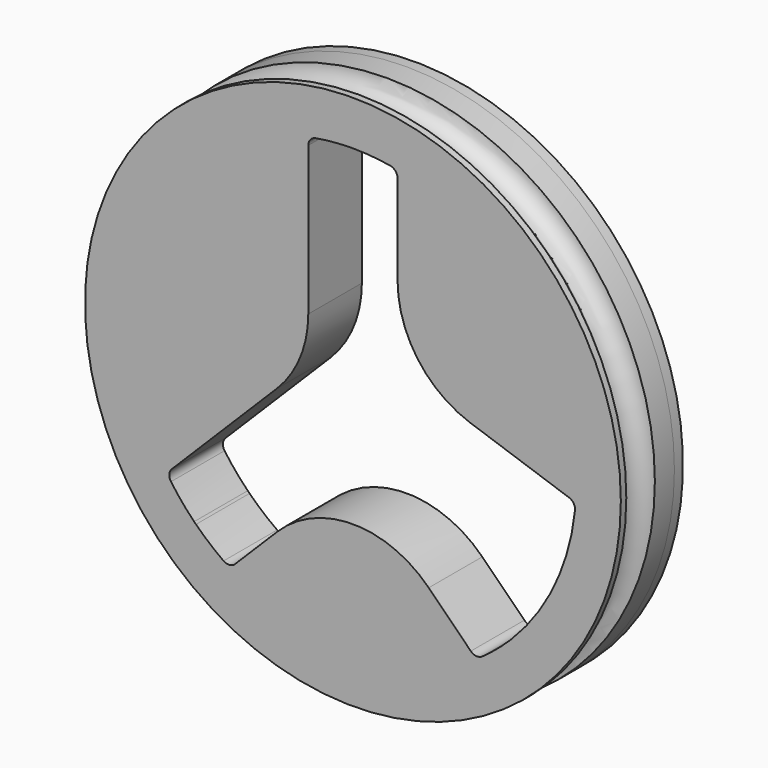
from build123d import *

# Parameters (mm, degrees)
F0_R     = 19.05
F1_DEPTH = 4.7625
F3_DEPTH = 25.4
F4_R     = 0.635
F5_R     = 7.62
F6_R     = 19.05
F6_R_2   = 16.8477682608
F7_DEPTH = 0.762
F8_R     = 1.27


with BuildPart() as f1:
    # F0 (on Front) → F1 (new body)
    with BuildSketch(Plane.XZ):
        Circle(F0_R)
    extrude(amount=F1_DEPTH)

    # F2 (on face) → F3 (cut)
    with BuildSketch(Plane.XZ.offset(4.7625)):
        with BuildLine():
            ThreePointArc((-13.2419744131, -8.7555045953), (-12.3238425839, -10.0067993588), (-11.2879133137, -11.1624615879))
            ThreePointArc((-11.2879133137, -11.1624615879), (-11.2235221627, -11.2272144784), (-11.1587595957, -11.2915958968))
            ThreePointArc((-11.1587595957, -11.2915958968), (-10.0029416889, -12.32735147), (-8.7515089527, -13.2452952306))
            Line((-8.7515089527, -13.2452952306), (0.0012918382, -4.4911788753))
            Line((0.0012918382, -4.4911788753), (8.7554081934, -13.2439796662))
            ThreePointArc((8.7554081934, -13.2439796662), (10.006702957, -12.325847837), (11.1623651861, -11.2899185668))
            ThreePointArc((11.1623651861, -11.2899185668), (11.2271180766, -11.2255274158), (11.291499495, -11.1607648488))
            ThreePointArc((11.291499495, -11.1607648488), (14.4575372164, -6.5602305791), (15.8344708919, -1.1479515698))
            Line((15.8344708919, -1.1479515698), (3.1757157521, 3.1741877502))
            Line((3.1757157521, 3.1741877502), (3.1747959638, 15.4156336391))
            Line((3.1747959638, 15.4156336391), (3.1747856088, 15.5534475772))
            ThreePointArc((3.1747856088, 15.5534475772), (1.6407693424, 15.7890293509), (0.0910801197, 15.8736933393))
            ThreePointArc((0.0910801197, 15.8736933393), (-0.0002385077, 15.8739491277), (-0.0915570956, 15.8736796149))
            ThreePointArc((-0.0915570956, 15.8736796149), (-1.6412335946, 15.7887827216), (-3.1752144554, 15.5529703966))
            Line((-3.1752144554, 15.5529703966), (-3.1741441565, 1.3138388775))
            Line((-3.1741441565, 1.3138388775), (-13.2419744131, -8.7555045953))
        make_face()
        with BuildLine():
            Line((-3.1740454005, 0), (-3.1741441565, 1.3138388775))
            Line((-3.1741441565, 1.3138388775), (-2.2442783045, 2.2438444902))
            ThreePointArc((-2.2442783045, 2.2438444902), (-2.9322076505, 1.2143442667), (-3.1740454005, 0))
        make_face(mode=Mode.SUBTRACT)
        with BuildLine():
            Line((-2.2442783045, 2.2438444902), (-3.1741441565, 1.3138388775))
            Line((-3.1741441565, 1.3138388775), (-3.1740454005, 0))
            ThreePointArc((-3.1740454005, 0), (-2.9322076505, 1.2143442667), (-2.2442783045, 2.2438444902))
        make_face()
        with BuildLine():
            ThreePointArc((-11.1587595957, -11.2915958968), (-11.2235221627, -11.2272144784), (-11.2879133137, -11.1624615879))
            ThreePointArc((-11.2879133137, -11.1624615879), (-11.2242651795, -11.2279576068), (-11.1587595957, -11.2915958968))
        make_face()
        with BuildLine():
            ThreePointArc((0.0910801197, 15.8736933393), (-0.0002385867, 15.874999991), (-0.0915570956, 15.8736796149))
            ThreePointArc((-0.0915570956, 15.8736796149), (-0.0002385077, 15.8739491277), (0.0910801197, 15.8736933393))
        make_face()
        with BuildLine():
            ThreePointArc((11.291499495, -11.1607648488), (11.2271180766, -11.2255274158), (11.1623651861, -11.2899185668))
            ThreePointArc((11.1623651861, -11.2899185668), (11.227861205, -11.2262704326), (11.291499495, -11.1607648488))
        make_face()
    extrude(amount=-F3_DEPTH, mode=Mode.SUBTRACT)

    # F4
    f4_edges = [f1.edges().sort_by_distance(p)[0] for p in [
        (-13.241974, -2.38125, -8.755505),
        (-8.751509, -2.38125, -13.245295),
        (8.755408, -2.38125, -13.24398),
        (15.834471, -2.38125, -1.147952),
        (3.174786, -2.38125, 15.553448),
        (-3.175214, -2.38125, 15.55297),
    ]]
    fillet(f4_edges, radius=F4_R)

    # F5
    f5_edges = [f1.edges().sort_by_distance(p)[0] for p in [
        (-3.174144, -2.38125, 1.313839),
        (0.001292, -2.38125, -4.491179),
        (3.175716, -2.38125, 3.174188),
    ]]
    fillet(f5_edges, radius=F5_R)

    # F6 (on face) → F7 (join)
    with BuildSketch(Plane(origin=(0, 0, 0), x_dir=(-1, 0, 0), z_dir=(0, 1, 0))):
        Circle(F6_R)
        Circle(F6_R_2, mode=Mode.SUBTRACT)
    extrude(amount=F7_DEPTH)

    # F8 (on Top) → F9 (revolve, cut)
    with BuildSketch(Plane.XY):
        with Locations((-19.0806053579, -3.0079341959)):
            Circle(F8_R)
    revolve(axis=Axis((0, 0.762, 0), (0, 1, 0)), mode=Mode.SUBTRACT)


solid = f1.part
